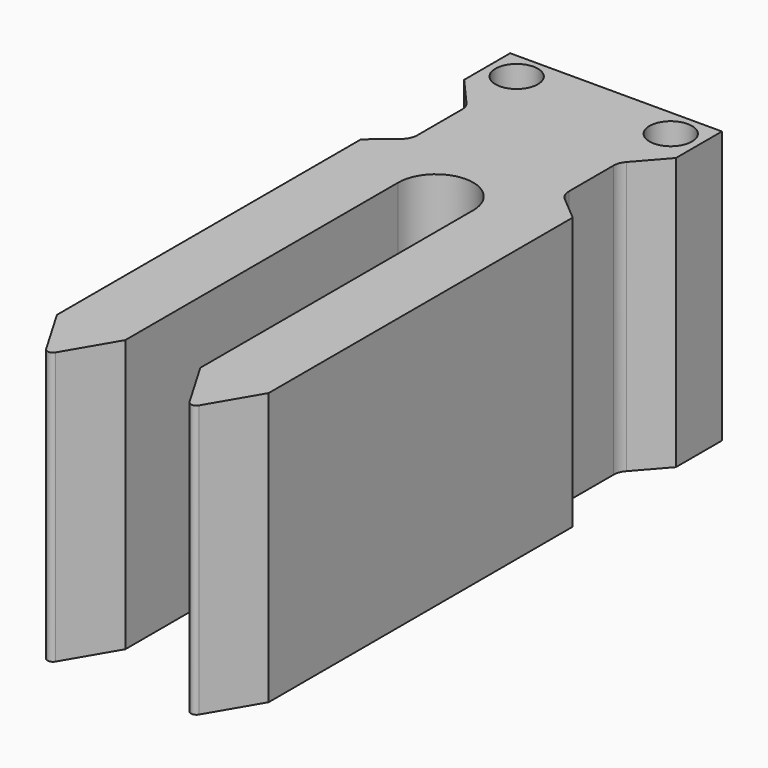
from build123d import *

# Parameters (mm, degrees)
F0_R     = 1.95
F1_DEPTH = 25
F2_R     = 1.5
F3_R     = 0.5


with BuildPart() as f1:
    # F0 (on Top) → F1 (new body)
    with BuildSketch(Plane.XY):
        with BuildLine():
            Line((9.725, 0), (0, 0))
            Line((0, 0), (-9.725, 0))
            Line((-9.725, 0), (-9.725, -5.28))
            Line((-9.725, -5.28), (-6.965, -8.418538))
            Line((-6.965, -8.418538), (-6.965, -14.808538))
            Line((-6.965, -14.808538), (-9.725, -17.13))
            Line((-9.725, -17.13), (-9.725, -52.04))
            Line((-9.725, -52.04), (-6.585, -57.397658))
            Line((-6.585, -57.397658), (-3.445, -52.04))
            Line((-3.445, -52.04), (-3.445, -20.7))
            ThreePointArc((-3.445, -20.7), (0, -17.255), (3.445, -20.7))
            Line((3.445, -20.7), (3.445, -52.04))
            Line((3.445, -52.04), (6.585, -57.397658))
            Line((6.585, -57.397658), (9.725, -52.04))
            Line((9.725, -52.04), (9.725, -17.13))
            Line((9.725, -17.13), (6.965, -14.808538))
            Line((6.965, -14.808538), (6.965, -8.418538))
            Line((6.965, -8.418538), (9.725, -5.28))
            Line((9.725, -5.28), (9.725, 0))
        make_face()
        with Locations((-7.105281, -2.529315)):
            Circle(F0_R, mode=Mode.SUBTRACT)
        with Locations((7.082135, -2.570621)):
            Circle(F0_R, mode=Mode.SUBTRACT)
    extrude(amount=F1_DEPTH)

    # F2
    f2_edges = [f1.edges().sort_by_distance(p)[0] for p in [
        (6.965, -8.418538, 12.5),
        (6.965, -14.808538, 12.5),
        (-6.965, -8.418538, 12.5),
        (-6.965, -14.808538, 12.5),
    ]]
    fillet(f2_edges, radius=F2_R)

    # F3
    f3_edges = [f1.edges().sort_by_distance(p)[0] for p in [
        (-6.585, -57.397658, 12.5),
        (6.585, -57.397658, 12.5),
    ]]
    fillet(f3_edges, radius=F3_R)


solid = f1.part
